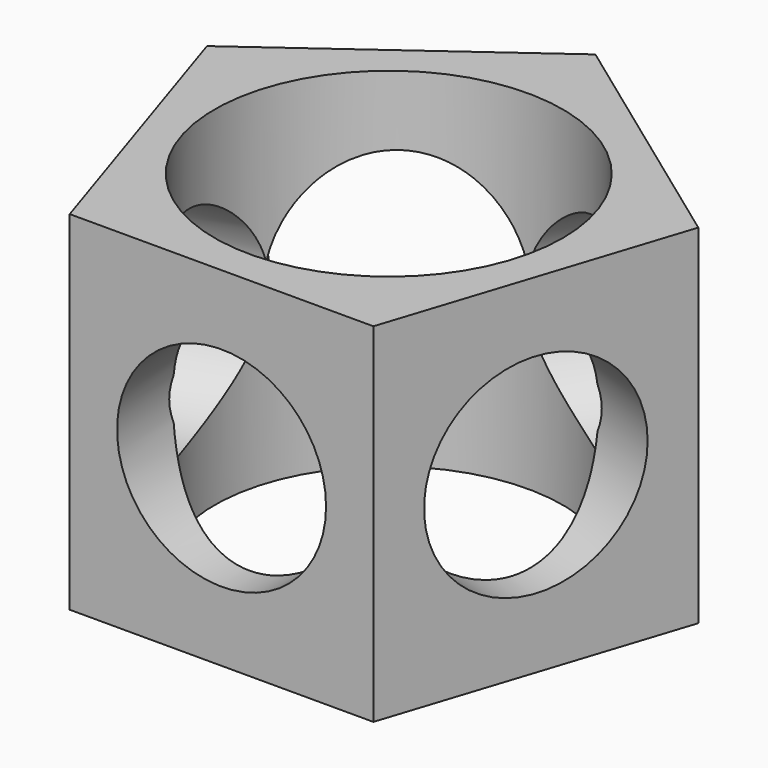
from build123d import *

# Parameters (mm, degrees)
F0_R      = 25
F1_DEPTH  = 50
F2_R      = 15
F3_DEPTH  = 17.7
F4_R      = 15
F5_DEPTH  = 15.9
F6_R      = 15
F7_DEPTH  = 16
F8_R      = 15
F9_DEPTH  = 16
F10_R     = 15
F11_DEPTH = 16


with BuildPart() as f1:
    # F0 (on Top) → F1 (new body)
    with BuildSketch(Plane.XY):
        Polygon((0, 37.082039325), (-35.2671151375, 11.4589803375), (-21.7962758402, -30), (21.7962758402, -30), (35.2671151375, 11.4589803375), align=None)
        Circle(F0_R, mode=Mode.SUBTRACT)
    extrude(amount=F1_DEPTH)

    # F2 (on face) → F3 (cut)
    with BuildSketch(Plane(origin=(-17.6335575688, 24.2705098312, 0), x_dir=(-0.8090169944, -0.5877852523, 0), z_dir=(-0.5877852523, 0.8090169944, 0))):
        with Locations((0, 25)):
            Circle(F2_R)
    extrude(amount=-F3_DEPTH, mode=Mode.SUBTRACT)

    # F4 (on face) → F5 (cut)
    with BuildSketch(Plane(origin=(17.6335575688, 24.2705098312, 0), x_dir=(-0.8090169944, 0.5877852523, 0), z_dir=(0.5877852523, 0.8090169944, 0))):
        with Locations((0, 25)):
            Circle(F4_R)
    extrude(amount=-F5_DEPTH, mode=Mode.SUBTRACT)

    # F6 (on face) → F7 (cut)
    with BuildSketch(Plane(origin=(28.5316954889, -9.2705098312, 0), x_dir=(0.3090169944, 0.9510565163, 0), z_dir=(0.9510565163, -0.3090169944, 0))):
        with Locations((0, 25)):
            Circle(F6_R)
    extrude(amount=-F7_DEPTH, mode=Mode.SUBTRACT)

    # F8 (on face) → F9 (cut)
    with BuildSketch(Plane.XZ.offset(30)):
        with Locations((0, 25)):
            Circle(F8_R)
    extrude(amount=-F9_DEPTH, mode=Mode.SUBTRACT)

    # F10 (on face) → F11 (cut)
    with BuildSketch(Plane(origin=(-28.5316954889, -9.2705098312, 0), x_dir=(0.3090169944, -0.9510565163, 0), z_dir=(-0.9510565163, -0.3090169944, 0))):
        with Locations((0, 25)):
            Circle(F10_R)
    extrude(amount=-F11_DEPTH, mode=Mode.SUBTRACT)


solid = f1.part
